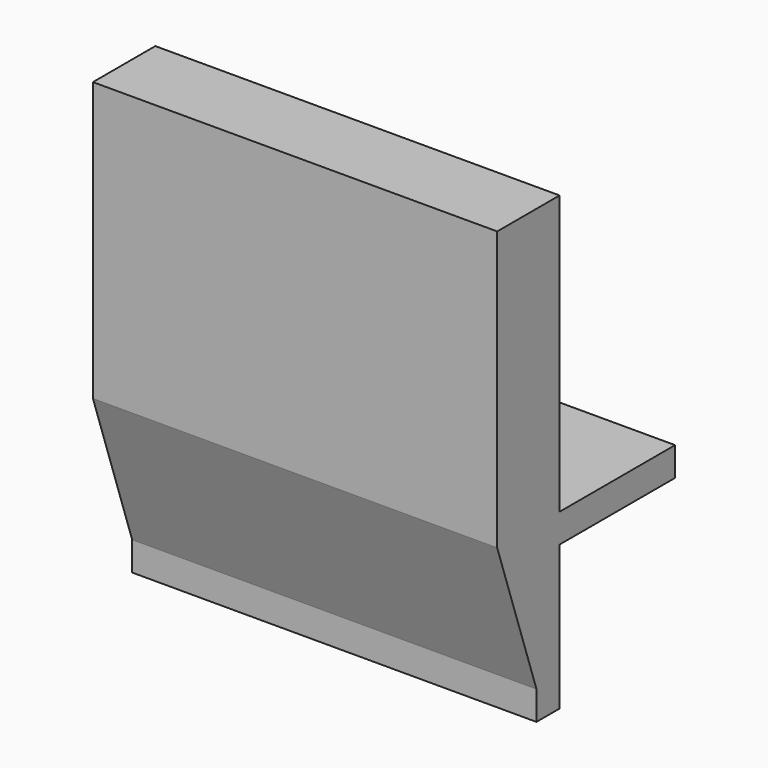
from build123d import *

# Parameters (mm, degrees)
F1_DEPTH = 70
F2_DEPTH = 5
F4_DEPTH = 25
F5_DEPTH = 5
F6_DEPTH = 5
F7_DEPTH = 13.5


with BuildPart() as f1:
    # F0 (on Right) → F1 (new body)
    with BuildSketch(Plane.YZ):
        Polygon((0, 26.0990989228), (0, 0), (0, -10.9009010772), (8.5, -35.9009010772), (13.5, -35.9009010772), (13.5, -15.9009010772), (33.5, -15.9009010772), (33.5, -10.9009010772), (13.5, -10.9009010772), (13.5, -5.7190796932), (13.5, 8.0284756223), (13.5, 26.0990989228), align=None)
    extrude(amount=F1_DEPTH)

    # F2 (add): a face of the model
    f2_faces = [f1.faces().sort_by_distance(p)[0] for p in [
        (35, 6.75, 26.0990989228),
    ]]
    extrude(f2_faces, amount=F2_DEPTH)

    # F3 (on face) → F4 (cut)
    with BuildSketch(Plane(origin=(0, 13.5, 0), x_dir=(-1, 0, 0), z_dir=(0, 1, 0))):
        Polygon((-70, 37.3218916357), (-70, 31.0990989228), (-40, 31.0990989228), (-35, 31.0990989228), (-30, 31.0990989228), (0, 31.0990989228), (0, 37.3218916357), align=None)
        Polygon((-70, -6.9171057179), (-70, -10.9009010772), (0, -10.9009010772), (0, -6.9171057179), (0, 31.0990989228), (-30, 31.0990989228), (-35, 31.0990989228), (-40, 31.0990989228), (-70, 31.0990989228), align=None)
    extrude(amount=-F4_DEPTH, mode=Mode.SUBTRACT)

    # F5 (add): a face of the model
    f5_faces = [f1.faces().sort_by_distance(p)[0] for p in [
        (35, 33.5, -13.4009010772),
    ]]
    extrude(f5_faces, amount=F5_DEPTH)

    # F6 (add): a face of the model
    f6_faces = [f1.faces().sort_by_distance(p)[0] for p in [
        (35, 11, -35.9009010772),
    ]]
    extrude(f6_faces, amount=F6_DEPTH)

    # F3 (on face) → F7 (join)
    with BuildSketch(Plane(origin=(0, 13.5, 0), x_dir=(-1, 0, 0), z_dir=(0, 1, 0))):
        Polygon((-70, -6.9171057179), (-70, -10.9009010772), (0, -10.9009010772), (0, -6.9171057179), (0, 37.3218916357), (-70, 37.3218916357), (-70, 31.0990989228), align=None)
    extrude(amount=-F7_DEPTH)


solid = f1.part
